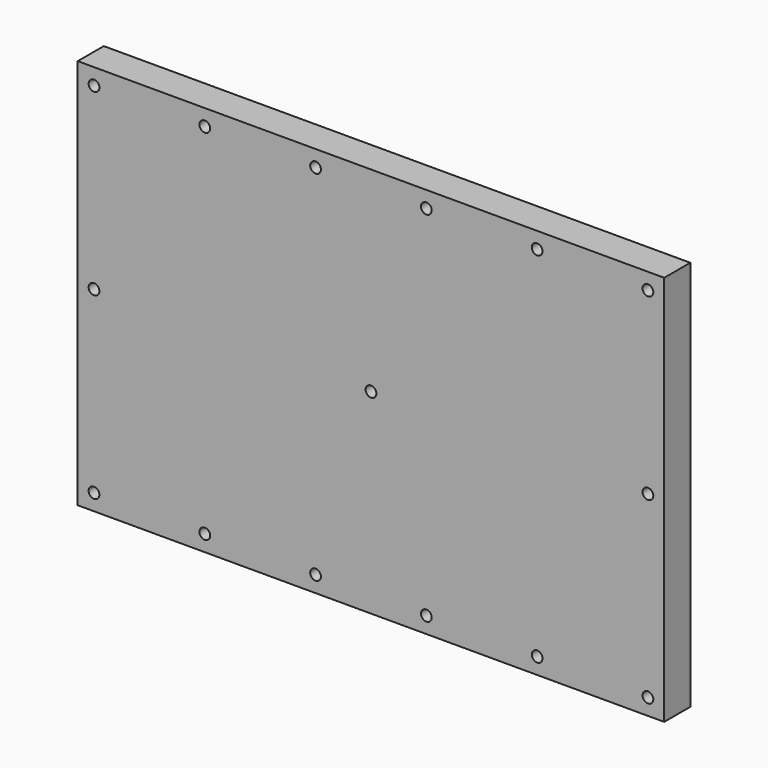
from build123d import *

# Parameters (mm, degrees)
F0_W           = 180
F0_H           = 120
F1_DEPTH       = 10
F3_D           = 3.3
F3_CBORE_D     = 6.5
F3_CBORE_DEPTH = 3
F5_D           = 3.3


with BuildPart() as f1:
    # F0 (on Front) → F1 (new body)
    with BuildSketch(Plane.XZ):
        with Locations((90, 60)):
            Rectangle(F0_W, F0_H)
    extrude(amount=F1_DEPTH)

    # F3 (through all)
    with Locations(Plane(origin=(0, 0, 0), x_dir=(-1, 0, 0), z_dir=(0, 1, 0))):
        with Locations((-175, 115), (-141, 115), (-107, 115), (-73, 115), (-39, 115), (-5, 115), (-5, 60), (-5, 5), (-39, 5), (-73, 5), (-107, 5), (-141, 5), (-175, 60), (-175, 5)):
            CounterBoreHole(F3_D / 2, F3_CBORE_D / 2, F3_CBORE_DEPTH)

    # F5 (through all)
    with Locations(Plane.XZ.offset(10)):
        with Locations((90, 60)):
            Hole(F5_D / 2)


solid = f1.part
